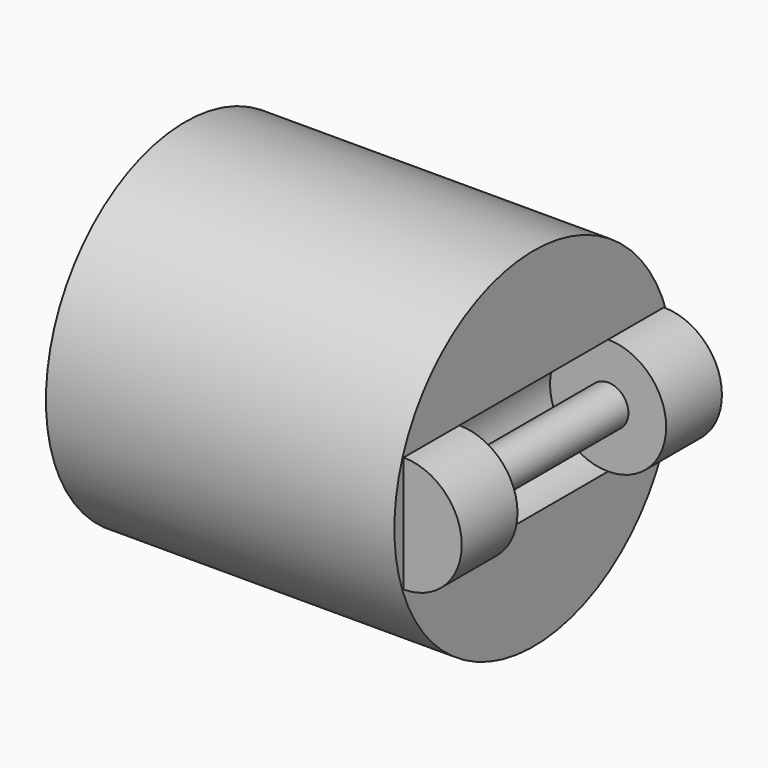
from build123d import *

# Parameters (mm, degrees)
F0_R     = 7.5
F1_DEPTH = 7.5
F2_R     = 2.5
F3_DEPTH = 7
F4_R     = 2.5
F5_DEPTH = 4
F6_R     = 0.875
F7_DEPTH = 4


with BuildPart() as f1:
    # F0 (on Right) → F1 (new body, symmetric)
    with BuildSketch(Plane.YZ):
        Circle(F0_R)
    extrude(amount=F1_DEPTH, both=True)

    # F2 (on Front) → F3 (join, symmetric)
    with BuildSketch(Plane.XZ):
        with Locations((7.5, 0)):
            Circle(F2_R)
    extrude(amount=F3_DEPTH, both=True)

    # F4 (on Front) → F5 (cut, symmetric)
    with BuildSketch(Plane.XZ):
        with Locations((7.5, 0)):
            Circle(F4_R)
    extrude(amount=F5_DEPTH, both=True, mode=Mode.SUBTRACT)

    # F6 (on Front) → F7 (join, symmetric)
    with BuildSketch(Plane.XZ):
        with Locations((7.5, 0)):
            Circle(F6_R)
    extrude(amount=F7_DEPTH, both=True)


solid = f1.part
